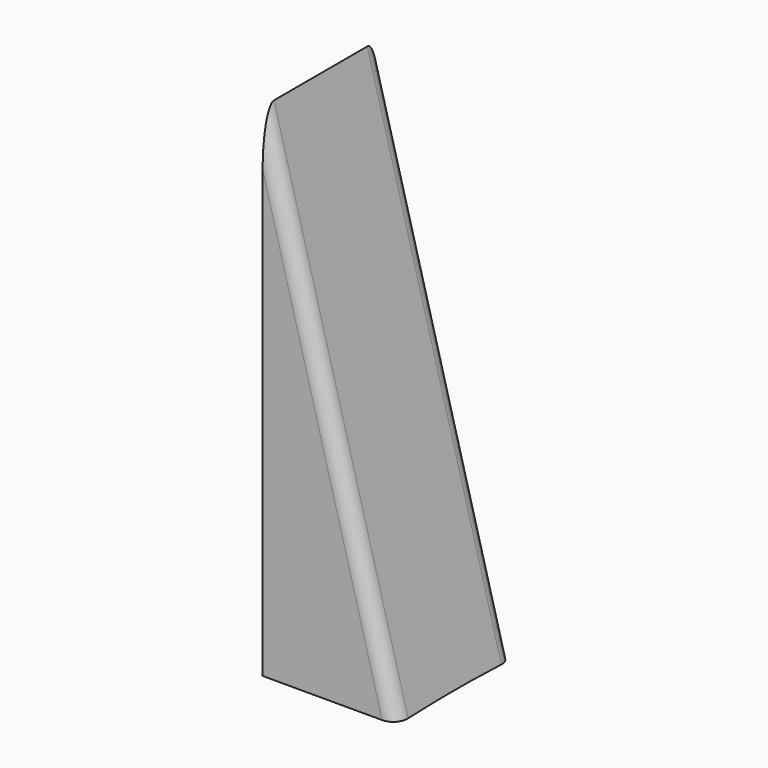
from build123d import *

# Parameters (mm, degrees)
F3_DEPTH = 92.038
F4_W     = 44.9782982225
F4_H     = 128.527504392
F5_DEPTH = 25
F7_DEPTH = 50


with BuildPart() as f3:
    # F2 (on line) → F3 (new body)
    with BuildSketch(Plane(origin=(0, 0, 0), x_dir=(0.9659258263, 0, 0.2588190451), z_dir=(0.2588190451, 0, -0.9659258263))):
        with BuildLine():
            Line((-10.2108, -12.7), (10.2108, -12.7))
            ThreePointArc((10.2108, -12.7), (11.9709301997, -11.9709301997), (12.7, -10.2108))
            Line((12.7, -10.2108), (12.7, 10.2108))
            ThreePointArc((12.7, 10.2108), (11.9709301997, 11.9709301997), (10.2108, 12.7))
            Line((10.2108, 12.7), (-10.2108, 12.7))
            ThreePointArc((-10.2108, 12.7), (-11.9709301997, 11.9709301997), (-12.7, 10.2108))
            Line((-12.7, 10.2108), (-12.7, -10.2108))
            ThreePointArc((-12.7, -10.2108), (-11.9709301997, -11.9709301997), (-10.2108, -12.7))
        make_face()
        with BuildLine():
            ThreePointArc((11.4554, -10.2108), (11.0908650999, -11.0908650999), (10.2108, -11.4554))
            Line((10.2108, -11.4554), (-10.2108, -11.4554))
            ThreePointArc((-10.2108, -11.4554), (-11.0908650999, -11.0908650999), (-11.4554, -10.2108))
            Line((-11.4554, -10.2108), (-11.4554, 10.2108))
            ThreePointArc((-11.4554, 10.2108), (-11.0908650999, 11.0908650999), (-10.2108, 11.4554))
            Line((-10.2108, 11.4554), (10.2108, 11.4554))
            ThreePointArc((10.2108, 11.4554), (11.0908650999, 11.0908650999), (11.4554, 10.2108))
            Line((11.4554, 10.2108), (11.4554, -10.2108))
        make_face(mode=Mode.SUBTRACT)
    extrude(amount=F3_DEPTH)

    # F4 (on Front) → F5 (cut, symmetric)
    with BuildSketch(Plane.XZ):
        with Locations((-10.2218911174, -60.9767503232)):
            Rectangle(F4_W, F4_H)
    extrude(amount=F5_DEPTH, both=True, mode=Mode.SUBTRACT)

    # F6 (on Right) → F7 (cut)
    with BuildSketch(Plane.YZ):
        with BuildLine():
            Line((0, -155.816540122), (55.8327542288, -89.3573068549))
            ThreePointArc((55.8327542288, -89.3573068549), (2.0772321925, -84.2070783197), (-51.7434931467, -88.6241505764))
            Line((-51.7434931467, -88.6241505764), (0, -155.816540122))
        make_face()
    extrude(amount=F7_DEPTH, mode=Mode.SUBTRACT)


solid = f3.part
